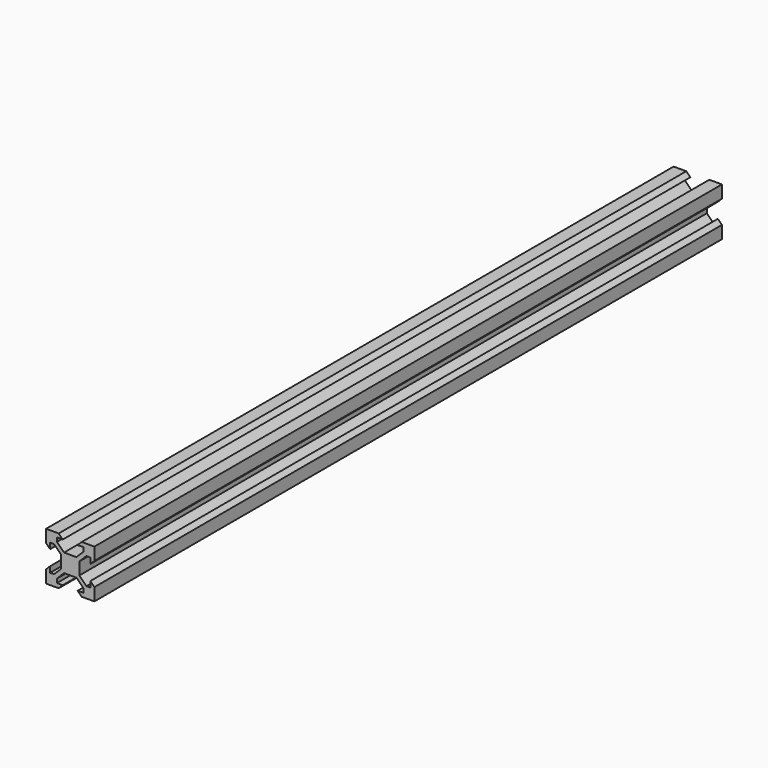
from build123d import *

# Parameters (mm, degrees)
F1_DEPTH = 162.5


with BuildPart() as f1:
    # F0 (on Front) → F1 (new body, symmetric)
    with BuildSketch(Plane.XZ):
        Polygon((-4.775, 10), (-10, 10), (-10, 4.775), (-8.325, 3.1), (-8.325, 5.5), (-6.6844038585, 5.5), (-3.75, 2.5655961415), (-3.75, 0), (-3.75, -2.5655961415), (-6.6844038585, -5.5), (-8.325, -5.5), (-8.325, -3.1), (-10, -4.775), (-10, -10), (-4.775, -10), (-3.1, -8.325), (-5.5, -8.325), (-5.5, -6.6844038585), (-2.5655961415, -3.75), (0, -3.75), (2.5655961415, -3.75), (5.5, -6.6844038585), (5.5, -8.325), (3.1, -8.325), (4.775, -10), (10, -10), (10, -4.775), (8.325, -3.1), (8.325, -5.5), (6.6844038585, -5.5), (3.75, -2.5655961415), (3.75, 0), (3.75, 2.5655961415), (6.6844038585, 5.5), (8.325, 5.5), (8.325, 3.1), (10, 4.775), (10, 10), (4.775, 10), (3.1, 8.325), (5.5, 8.325), (5.5, 6.6844038585), (2.5655961415, 3.75), (0, 3.75), (-2.5655961415, 3.75), (-5.5, 6.6844038585), (-5.5, 8.325), (-3.1, 8.325), align=None)
    extrude(amount=F1_DEPTH, both=True)


solid = f1.part
